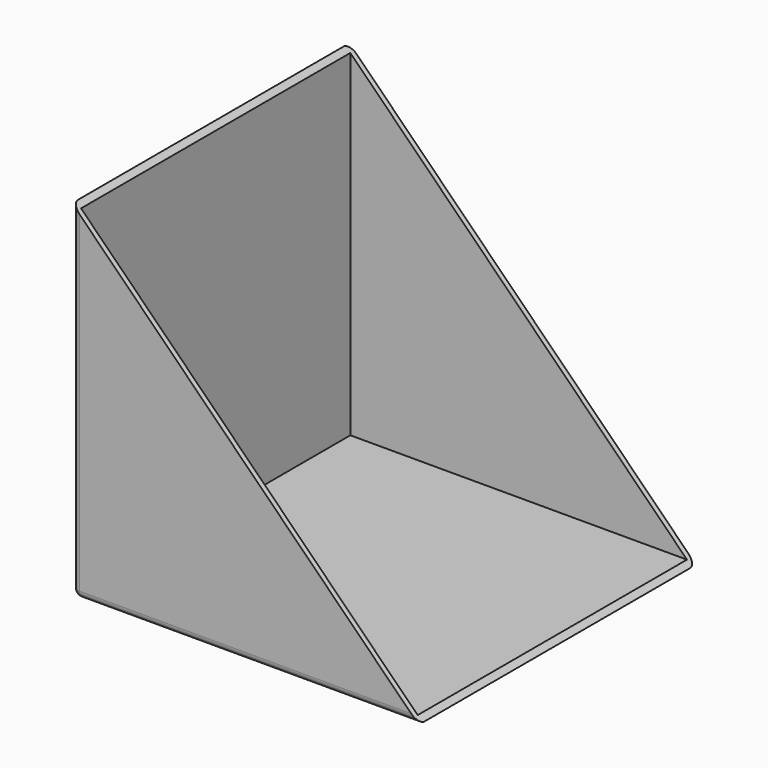
from build123d import *

# Parameters (mm, degrees)
F1_DEPTH = 140
F2_T     = -2
F3_R     = 3


with BuildPart() as f1:
    # F0 (on Front) → F1 (new body)
    with BuildSketch(Plane.XZ):
        Polygon((0, -93.947366), (-140, 46.052634), (-140, -93.947366), align=None)
    extrude(amount=F1_DEPTH)

    # F2
    f2_openings = [f1.faces().sort_by_distance(p)[0] for p in [
        (-70, -70, -23.947366),
    ]]
    offset(amount=F2_T, openings=f2_openings)

    # F3
    f3_edges = [f1.edges().sort_by_distance(p)[0] for p in [
        (-140, -70, -93.947366),
        (-140, 0, -23.947366),
        (-70, 0, -93.947366),
        (-70, -140, -93.947366),
        (-140, -140, -23.947366),
    ]]
    fillet(f3_edges, radius=F3_R)


solid = f1.part
